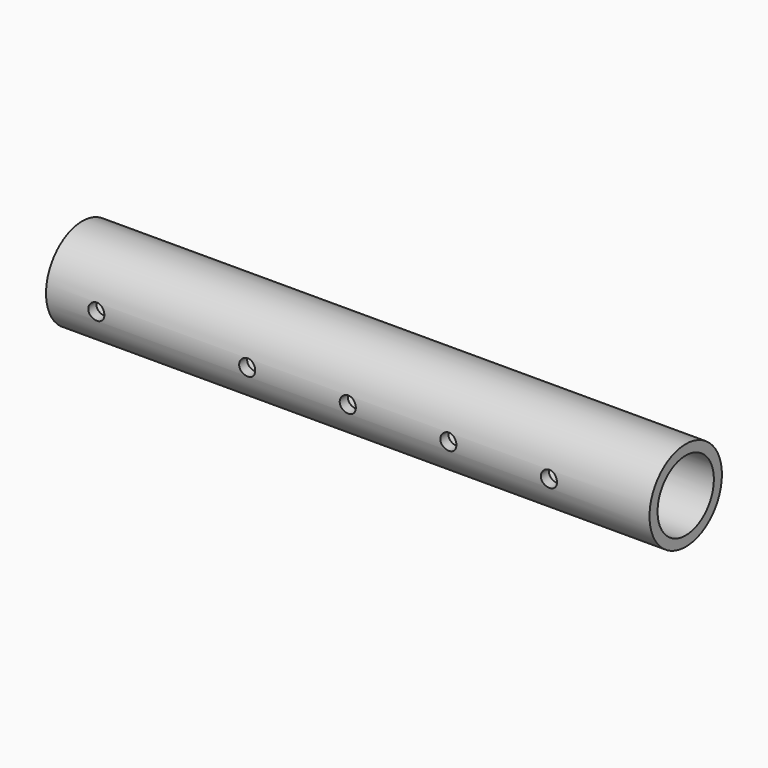
from build123d import *

# Parameters (mm, degrees)
F0_R     = 22.5
F0_R_2   = 17.5
F1_DEPTH = 300
F2_R     = 4
F3_DEPTH = 25
F4_R     = 4
F5_DEPTH = 25


with BuildPart() as f1:
    # F0 (on Right) → F1 (new body)
    with BuildSketch(Plane.YZ):
        Circle(F0_R)
        Circle(F0_R_2, mode=Mode.SUBTRACT)
    extrude(amount=F1_DEPTH)

    # F2 (on Front) → F3 (cut, symmetric)
    with BuildSketch(Plane.XZ):
        with Locations((25, 0)):
            Circle(F2_R)
    extrude(amount=F3_DEPTH, both=True, mode=Mode.SUBTRACT)

    # F4 (on Front) → F5 (cut, symmetric)
    with BuildSketch(Plane.XZ):
        with Locations((100, 0)):
            Circle(F4_R)
        with Locations((150, 0)):
            Circle(F4_R)
        with Locations((200, 0)):
            Circle(F4_R)
        with Locations((250, 0)):
            Circle(F4_R)
    extrude(amount=F5_DEPTH, both=True, mode=Mode.SUBTRACT)


solid = f1.part
